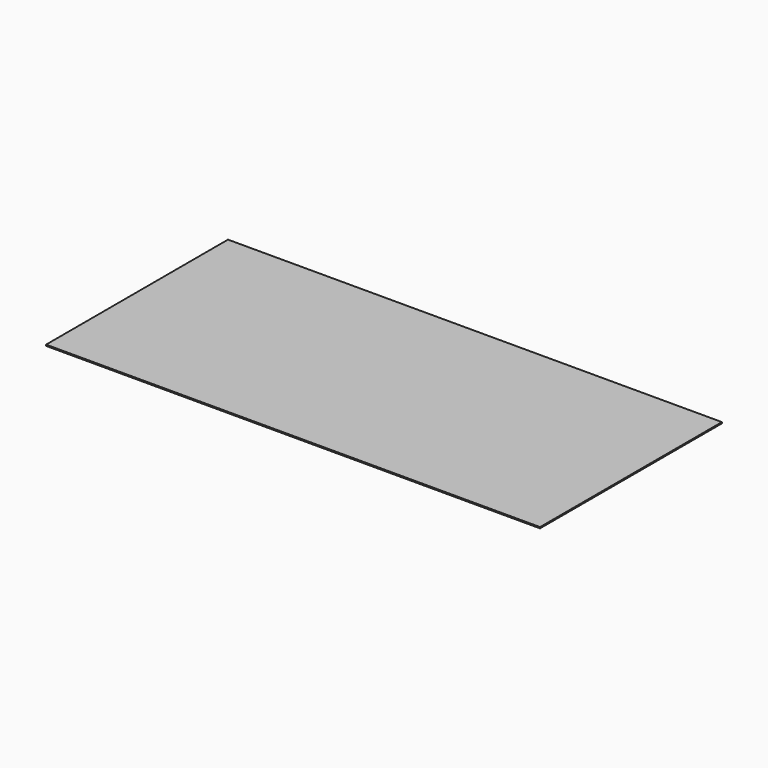
from build123d import *

# Parameters (mm, degrees)
SKETCH_W  = 630
SKETCH_H  = 290
PAD_DEPTH = 1.5


with BuildPart() as part:
    # Sketch → Pad (new body)
    with BuildSketch(Plane.XY):
        Rectangle(SKETCH_W, SKETCH_H)
    extrude(amount=PAD_DEPTH)


solid = part.part
